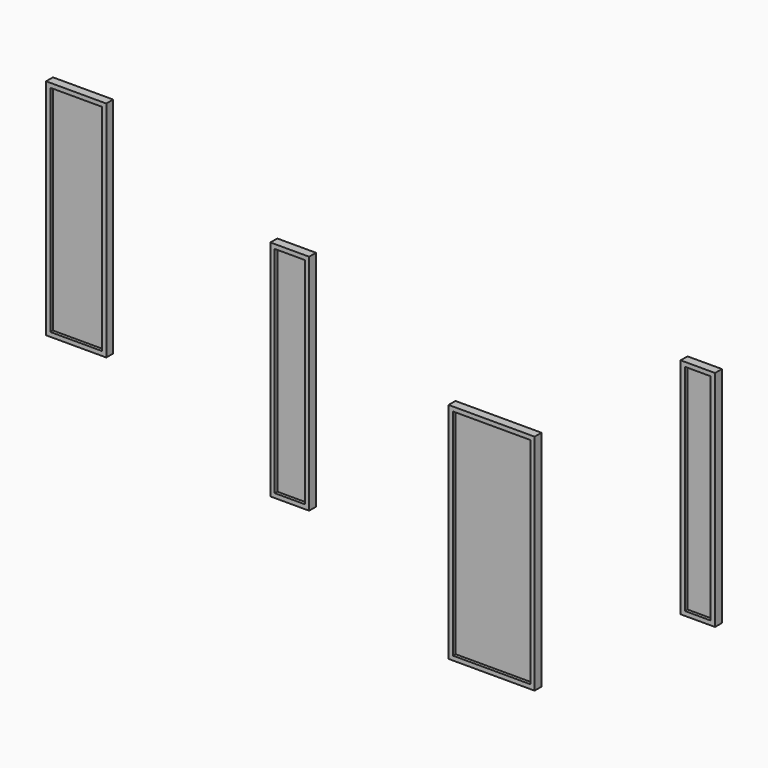
from build123d import *

# Parameters (mm, degrees)
F0_W      = 450
F0_H      = 2600
F0_W_2    = 350
F0_H_2    = 2500
F1_DEPTH  = 100
F3_W      = 350
F3_H      = 2500
F4_DEPTH  = 12.5
F5_W      = 700
F5_H      = 2600
F5_W_2    = 600
F5_H_2    = 2500
F6_DEPTH  = 100
F8_W      = 600
F8_H      = 2500
F9_DEPTH  = 12.5
F10_W     = 400
F10_H     = 2600
F10_W_2   = 300
F10_H_2   = 2500
F11_DEPTH = 100
F13_W     = 300
F13_H     = 2500
F14_DEPTH = 12.5
F15_W     = 1000
F15_H     = 2600
F15_W_2   = 900
F15_H_2   = 2500
F16_DEPTH = 100
F18_W     = 900
F18_H     = 2500
F19_DEPTH = 12.5


with BuildPart() as f1:
    # F0 (on Front) → F1 (new body)
    with BuildSketch(Plane.XZ):
        with Locations((-9.8851267248, 906.9261944562)):
            Rectangle(F0_W, F0_H)
        with Locations((-9.8851267248, 906.9261944562)):
            Rectangle(F0_W_2, F0_H_2, mode=Mode.SUBTRACT)
    extrude(amount=F1_DEPTH)


with BuildPart() as f4:
    # F3 (on mid) → F4 (new body, symmetric)
    with BuildSketch(Plane.XZ.offset(50)):
        with Locations((-9.8851267248, 906.9261944562)):
            Rectangle(F3_W, F3_H)
    extrude(amount=F4_DEPTH, both=True)


with BuildPart() as f6:
    # F5 (on Front) → F6 (new body)
    with BuildSketch(Plane.XZ):
        with Locations((-2493.0438446999, 1708.1477986987)):
            Rectangle(F5_W, F5_H)
        with Locations((-2493.0438446999, 1708.1477986987)):
            Rectangle(F5_W_2, F5_H_2, mode=Mode.SUBTRACT)
    extrude(amount=F6_DEPTH)


with BuildPart() as f9:
    # F8 (on mid) → F9 (new body, symmetric)
    with BuildSketch(Plane(origin=(0, -50, 0), x_dir=(-1, 0, 0), z_dir=(0, 1, 0))):
        with Locations((2493.0438446999, 1708.1477986987)):
            Rectangle(F8_W, F8_H)
    extrude(amount=F9_DEPTH, both=True)


with BuildPart() as f11:
    # F10 (on Front) → F11 (new body)
    with BuildSketch(Plane.XZ):
        with Locations((4734.7310781479, 1251.5747024048)):
            Rectangle(F10_W, F10_H)
        with Locations((4734.7310781479, 1251.5747024048)):
            Rectangle(F10_W_2, F10_H_2, mode=Mode.SUBTRACT)
    extrude(amount=F11_DEPTH)


with BuildPart() as f14:
    # F13 (on mid) → F14 (new body, symmetric)
    with BuildSketch(Plane(origin=(0, -50, 0), x_dir=(-1, 0, 0), z_dir=(0, 1, 0))):
        with Locations((-4734.7310781479, 1251.5747024048)):
            Rectangle(F13_W, F13_H)
    extrude(amount=F14_DEPTH, both=True)


with BuildPart() as f16:
    # F15 (on Front) → F16 (new body)
    with BuildSketch(Plane.XZ):
        with Locations((2336.7742300034, -82.4915404867)):
            Rectangle(F15_W, F15_H)
        with Locations((2336.7742300034, -82.4915404867)):
            Rectangle(F15_W_2, F15_H_2, mode=Mode.SUBTRACT)
    extrude(amount=F16_DEPTH)


with BuildPart() as f19:
    # F18 (on mid) → F19 (new body, symmetric)
    with BuildSketch(Plane.XZ.offset(50)):
        with Locations((2336.7742300034, -82.4915404867)):
            Rectangle(F18_W, F18_H)
    extrude(amount=F19_DEPTH, both=True)


solid = Compound([f1.part, f4.part, f6.part, f9.part, f11.part, f14.part, f16.part, f19.part])
